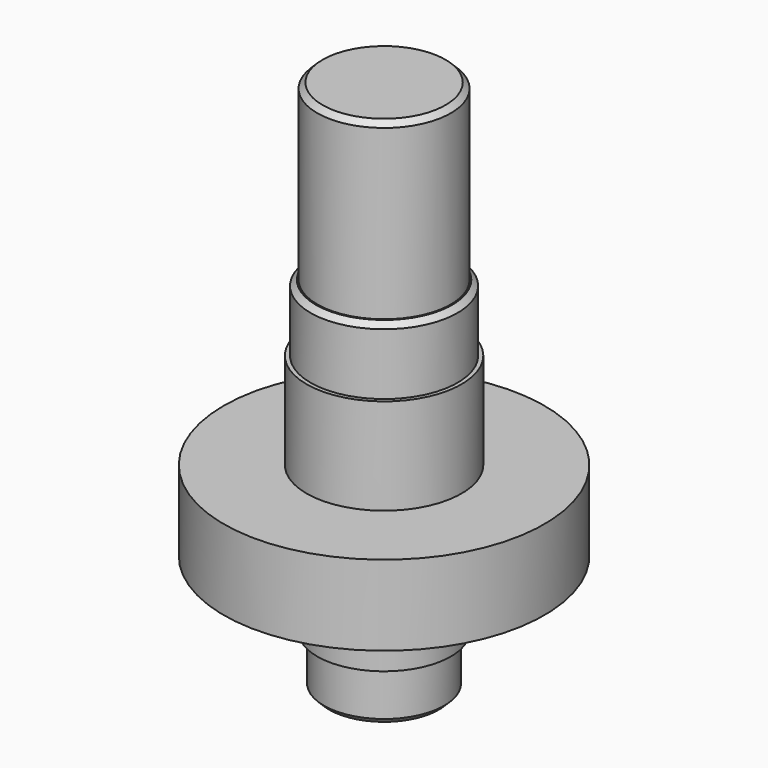
from build123d import *

# Parameters (mm, degrees)
F2_SIZE = 2


with BuildPart() as f1:
    # F0 (on Front) → F1 (revolve)
    with BuildSketch(Plane.XZ):
        Polygon((-22.5, 0), (0, 0), (0, 200), (-25, 200), (-25, 135), (-27.5, 135), (-27.5, 110), (-29, 110), (-29, 74), (-60, 74), (-60, 44), (-25, 44), (-25, 19), (-22.5, 19), align=None)
    revolve(axis=Axis((0, 0, 91.274635), (0, 0, -1)))

    # F2
    f2_edges = [f1.edges().sort_by_distance(p)[0] for p in [
        (22.5, 0, 0),
        (25, 0, 200),
        (27.5, 0, 135),
    ]]
    chamfer(f2_edges, length=F2_SIZE)


solid = f1.part
